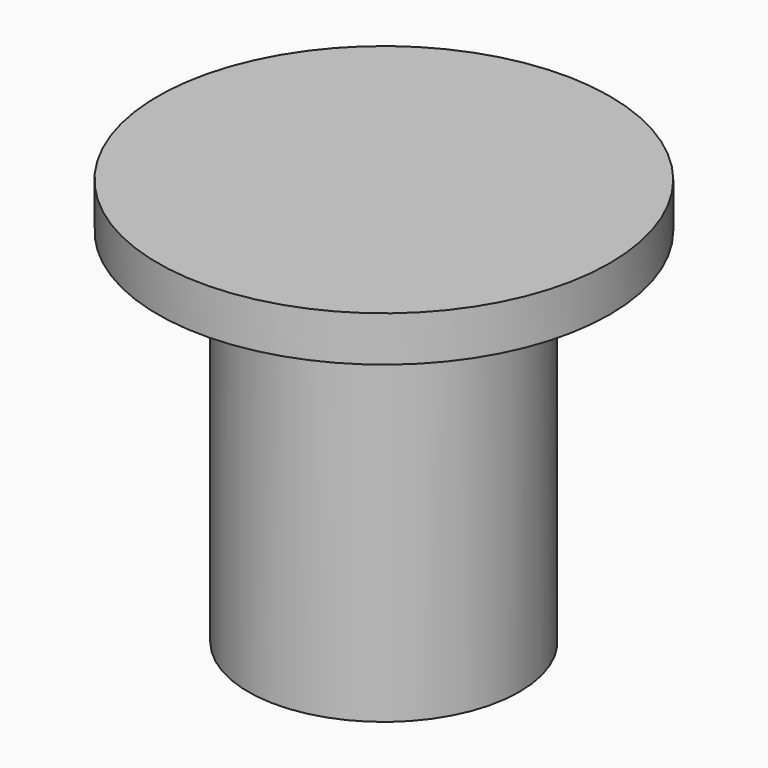
from build123d import *

# Parameters (mm, degrees)
EXTRUDE002_DEPTH  = 7
CYLINDER006_R     = 6
CYLINDER006_DEPTH = 17
CYLINDER_R        = 10
CYLINDER_DEPTH    = 2


with BuildPart() as extrude002:
    # Sketch → Extrude002 (new body)
    with BuildSketch(Plane.XY):
        with BuildLine():
            Line((-2.060088, 8.599999), (2.000001, 8.599999))
            ThreePointArc((2.000001, 5.404159), (2.598634, 7.002079), (2.000001, 8.599999))
            Line((2.000001, 5.404159), (-2.060088, 5.404159))
            ThreePointArc((-2.060088, 8.599999), (-2.651924, 7.002079), (-2.060088, 5.404159))
        make_face()
    extrude(amount=EXTRUDE002_DEPTH)


with BuildPart() as extrude002_1:
    # Extrude002 placement: moved
    add(extrude002.part.moved(Location((-1, 18, 24))))


with BuildPart() as cut015:
    # Cylinder006 → Cylinder006 (new body)
    with BuildSketch(Plane(origin=(-1, 25, 24), x_dir=(1, 0, 0), z_dir=(0, 0, 1))):
        Circle(CYLINDER006_R)
    extrude(amount=CYLINDER006_DEPTH)

    # Cut015: cut Extrude002
    add(extrude002_1.part, mode=Mode.SUBTRACT)


with BuildPart() as obj1:
    # Cylinder → Cylinder (new body)
    with BuildSketch(Plane(origin=(-1, 25, 40), x_dir=(1, 0, 0), z_dir=(0, 0, 1))):
        Circle(CYLINDER_R)
    extrude(amount=CYLINDER_DEPTH)

    # Fusion014: union Cut015
    add(cut015.part)


with BuildPart() as obj1_1:
    # Fusion014 placement: moved
    add(obj1.part.moved(Location((1, -34, 6))))


solid = obj1_1.part
